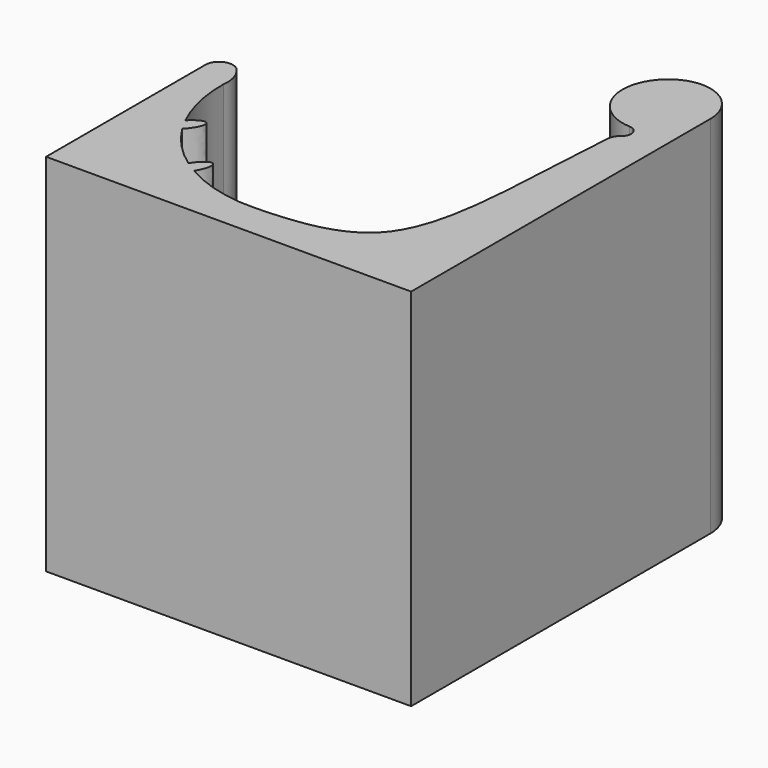
from build123d import *

# Parameters (mm, degrees)
F1_DEPTH = 80
F2_R     = 3
F3_R     = 3


with BuildPart() as f1:
    # F0 (on Top) → F1 (new body)
    with BuildSketch(Plane.XY):
        with BuildLine():
            Line((-40, 7), (-40, -41))
            Line((-40, -41), (40, -41))
            Line((40, -41), (40, 41))
            ThreePointArc((40, 41), (35.6846584384, 48.6846584384), (26.8768943744, 49))
            ThreePointArc((26.8768943744, 49), (21.6884164325, 37.9773734121), (31, 30.1216104501))
            ThreePointArc((31, 30.1216104501), (32.9083754305, 28.1237103179), (31, 26.1258101857))
            add(Edge.make_bspline(
                [(31, 26.1258101857), (29.1383194506, 2.2108836058), (30.9167526541, -31.2253562681), (8.8170867264, -33.1853542307), (0, -33.4819146159)],
                knots=[0, 0, 0, 0, 0.6000833432, 1, 1, 1, 1], degree=3))
            ThreePointArc((0, -33.4819146159), (-8.7763698001, -32.5596158188), (-16.9671031431, -29.2752301466))
            add(Edge.make_bspline(
                [(-16.9671031431, -29.2752301466), (-14.901822055, -25.8906310448), (-16.1565216247, -25.0924466589), (-17.4112211944, -24.2942622731), (-19.4985771018, -27.664818351)],
                knots=[4.7144665779, 4.7144665779, 4.7144665779, 6.2764659366, 6.2764659366, 7.8384652954, 7.8384652954, 7.8384652954], degree=2, weights=[1, 0.710210129, 1, 0.710210129, 1]))
            ThreePointArc((-19.4985771018, -27.664818351), (-24.3581566231, -23.452844128), (-28.2774287922, -18.3542614188))
            add(Edge.make_bspline(
                [(-28.2774287922, -18.3542614188), (-25.5565793832, -15.5150943204), (-26.3141793997, -14.1455346477), (-27.0717794162, -12.7759749751), (-29.8082391869, -15.5869222722)],
                knots=[1.4456697136, 1.4456697136, 1.4456697136, 3.0061633493, 3.0061633493, 4.566656985, 4.566656985, 4.566656985], degree=2, weights=[1, 0.7107399344, 1, 0.7107399344, 1]))
            ThreePointArc((-29.8082391869, -15.5869222722), (-32.3036744342, -8.4866885025), (-33.0717967697, -1))
            ThreePointArc((-33.0717967697, -1), (-34.7084973779, 4.582575695), (-40, 7))
        make_face()
    extrude(amount=F1_DEPTH)

    # F2
    f2_edges = [f1.edges().sort_by_distance(p)[0] for p in [
        (-40, 7, 40),
    ]]
    fillet(f2_edges, radius=F2_R)

    # F3
    f3_edges = [f1.edges().sort_by_distance(p)[0] for p in [
        (31, 26.12581, 40),
    ]]
    fillet(f3_edges, radius=F3_R)


solid = f1.part
